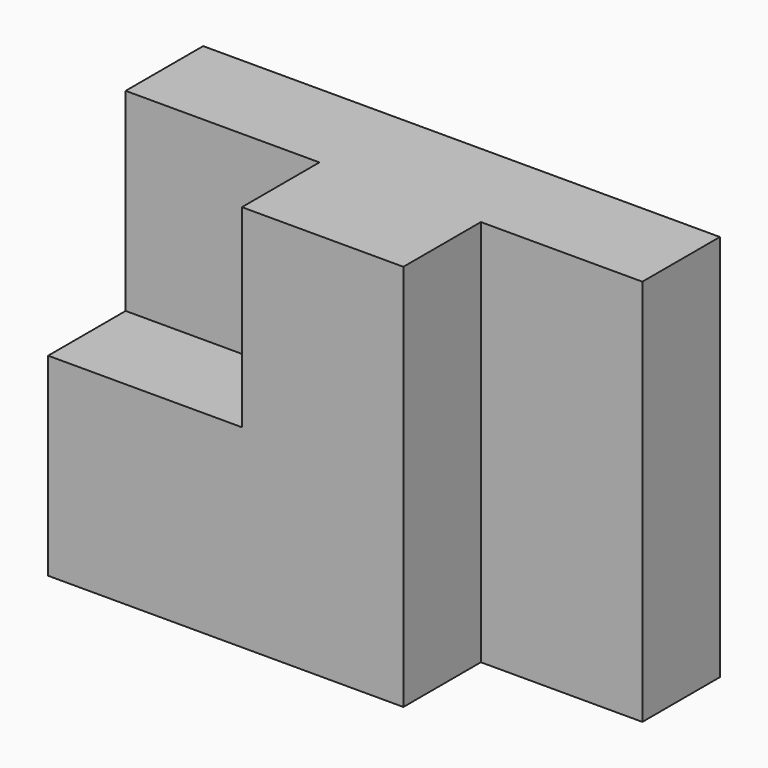
from build123d import *

# Parameters (mm, degrees)
F0_W     = 30
F0_H     = 30
F0_W_2   = 25
F0_H_2   = 60
F1_DEPTH = 15
F2_DEPTH = 30


with BuildPart() as f1:
    # F0 (on Front) → F1 (new body)
    with BuildSketch(Plane.XZ):
        with Locations((15, 45)):
            Rectangle(F0_W, F0_H)
        Polygon((0, 30), (0, 0), (55, 0), (55, 60), (30, 60), (30, 30), align=None)
        with Locations((67.5, 30)):
            Rectangle(F0_W_2, F0_H_2)
    extrude(amount=F1_DEPTH)

    # F0 (on Front) → F2 (join)
    with BuildSketch(Plane.XZ):
        Polygon((0, 30), (0, 0), (55, 0), (55, 60), (30, 60), (30, 30), align=None)
    extrude(amount=F2_DEPTH)


solid = f1.part
